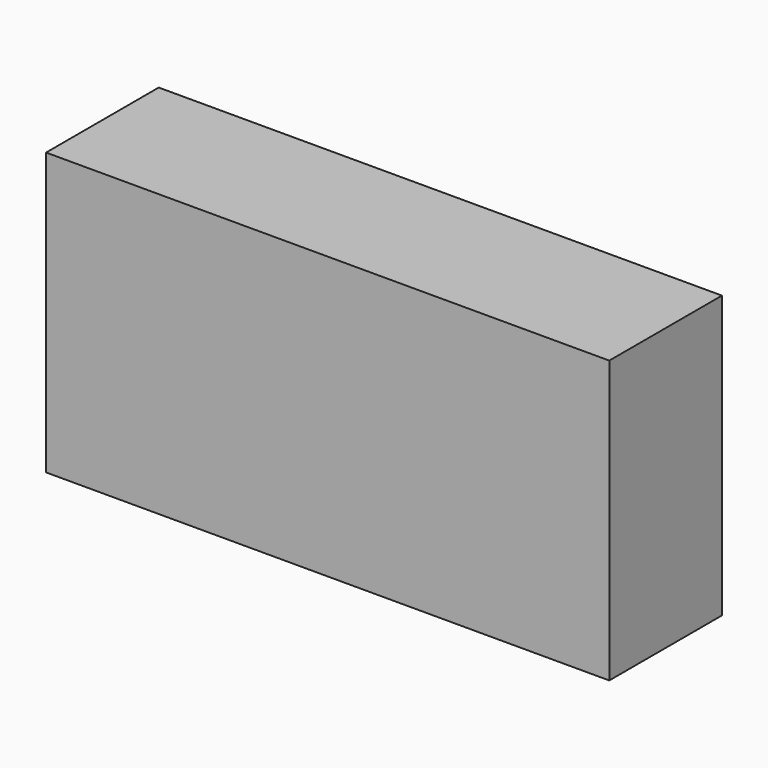
from build123d import *

# Parameters (mm, degrees)
F0_W     = 101.6
F0_H     = 50.8
F1_DEPTH = 25.4


with BuildPart() as f1:
    # F0 (on Front) → F1 (new body)
    with BuildSketch(Plane.XZ):
        Rectangle(F0_W, F0_H)
        Rectangle(F0_W, F0_H)
    extrude(amount=F1_DEPTH)


solid = f1.part
